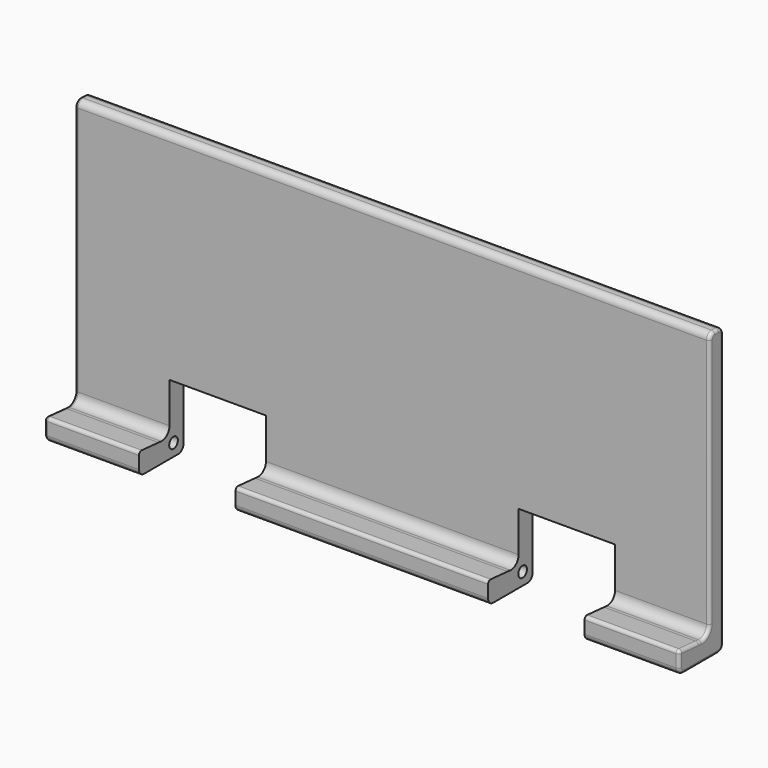
from build123d import *

# Parameters (mm, degrees)
F1_DEPTH      = 100
F1_DEPTH_BACK = 100
F2_R          = 1
F5_DEPTH      = 70.2
F5_DEPTH_BACK = 70.2
F6_DEPTH      = 39.8
F6_DEPTH_BACK = 39.8
F3_R          = 1.7
F7_DEPTH      = 200.001
F9_DEPTH      = 90
F9_DEPTH_BACK = 90
F10_R         = 1.7
F11_DEPTH     = 20
F12_R         = 2.1690040251
F13_DEPTH     = 20


with BuildPart() as f1:
    # F0 (on Right) → F1 (new body, two sides)
    with BuildSketch(Plane.YZ) as f1_sk:
        with BuildLine():
            Line((0, 2), (0, 88))
            ThreePointArc((0, 88), (-0.5857864376, 89.4142135624), (-2, 90))
            Line((-2, 90), (-3.5, 90))
            ThreePointArc((-3.5, 90), (-4.9142135624, 89.4142135624), (-5.5, 88))
            Line((-5.5, 88), (-5.5, 43.945170586))
            Line((-5.5, 43.945170586), (-5.5, 9.2603986447))
            ThreePointArc((-5.5, 9.2603986447), (-6.468671533, 7.0527517845), (-8.7491364396, 6.27076137))
            Line((-8.7491364396, 6.27076137), (-9.8321819194, 6.36101516))
            Line((-9.8321819194, 6.36101516), (-16.4169545201, 6.90974621))
            ThreePointArc((-16.4169545201, 6.90974621), (-17.177109489, 6.6490827385), (-17.5, 5.9132004518))
            Line((-17.5, 5.9132004518), (-17.5, 2))
            ThreePointArc((-17.5, 2), (-16.9142135624, 0.5857864376), (-15.5, 0))
            Line((-15.5, 0), (-2, 0))
            ThreePointArc((-2, 0), (-0.5857864376, 0.5857864376), (0, 2))
        make_face()
    extrude(amount=F1_DEPTH)
    extrude(f1_sk.sketch, amount=-F1_DEPTH_BACK)

    # F2
    f2_edges = [f1.edges().sort_by_distance(p)[0] for p in [
        (-100, 0, 45),
        (100, 0, 45),
    ]]
    fillet(f2_edges, radius=F2_R)

    # F4 (on Right) → F5 (cut, two sides)
    with BuildSketch(Plane.YZ) as f5_sk:
        Polygon((-8.8815924794, 6.6997300052), (-19.3425188781, 7.6679212159), (-19.3425188781, 0), (0, 0), (0, 27.5), (-5.5, 22), (-5.5, 9.4664877642), align=None)
    extrude(amount=F5_DEPTH, mode=Mode.SUBTRACT)
    extrude(f5_sk.sketch, amount=-F5_DEPTH_BACK, mode=Mode.SUBTRACT)

    # F0 (on Right) → F6 (join, two sides)
    with BuildSketch(Plane.YZ) as f6_sk:
        with BuildLine():
            Line((0, 2), (0, 88))
            ThreePointArc((0, 88), (-0.5857864376, 89.4142135624), (-2, 90))
            Line((-2, 90), (-3.5, 90))
            ThreePointArc((-3.5, 90), (-4.9142135624, 89.4142135624), (-5.5, 88))
            Line((-5.5, 88), (-5.5, 43.945170586))
            Line((-5.5, 43.945170586), (-5.5, 9.2603986447))
            ThreePointArc((-5.5, 9.2603986447), (-6.468671533, 7.0527517845), (-8.7491364396, 6.27076137))
            Line((-8.7491364396, 6.27076137), (-9.8321819194, 6.36101516))
            Line((-9.8321819194, 6.36101516), (-16.4169545201, 6.90974621))
            ThreePointArc((-16.4169545201, 6.90974621), (-17.177109489, 6.6490827385), (-17.5, 5.9132004518))
            Line((-17.5, 5.9132004518), (-17.5, 2))
            ThreePointArc((-17.5, 2), (-16.9142135624, 0.5857864376), (-15.5, 0))
            Line((-15.5, 0), (-2, 0))
            ThreePointArc((-2, 0), (-0.5857864376, 0.5857864376), (0, 2))
        make_face()
    extrude(amount=F6_DEPTH)
    extrude(f6_sk.sketch, amount=-F6_DEPTH_BACK)

    # F3 (on face) → F7 (cut, through all)
    with BuildSketch(Plane.YZ.offset(100)):
        with Locations((-3.9070966475, 3.9112776819)):
            Circle(F3_R)
    extrude(amount=-F7_DEPTH, mode=Mode.SUBTRACT)

    # F8 (on Right) → F9 (cut, two sides)
    with BuildSketch(Plane.YZ) as f9_sk:
        Polygon((1.8498107092, 85), (0, 85), (-3, 85), (0, 82), (0, 79), (-3, 79), (0, 76), (0, 73), (-3, 73), (0, 70), (0, 67), (-3, 67), (0, 64), (0, 61), (-3, 61), (0, 58), (0, 55), (-3, 55), (0, 52), (0, 49), (-3, 49), (0, 46), (0, 43), (-3, 43), (0, 40), (1.8498107092, 39.9083867669), align=None)
    extrude(amount=-F9_DEPTH, mode=Mode.SUBTRACT)
    extrude(f9_sk.sketch, amount=F9_DEPTH_BACK, mode=Mode.SUBTRACT)

    # F10 (on face) → F11 (join)
    with BuildSketch(Plane.YZ.offset(100)):
        with Locations((-3.9070966475, 3.9112776819)):
            Circle(F10_R)
    extrude(amount=-F11_DEPTH)

    # F12 (on face) → F13 (join)
    with BuildSketch(Plane(origin=(-100, 0, 0), x_dir=(0, -1, 0), z_dir=(-1, 0, 0))):
        with Locations((3.9070966475, 3.9112776819)):
            Circle(F12_R)
    extrude(amount=-F13_DEPTH)


solid = f1.part
